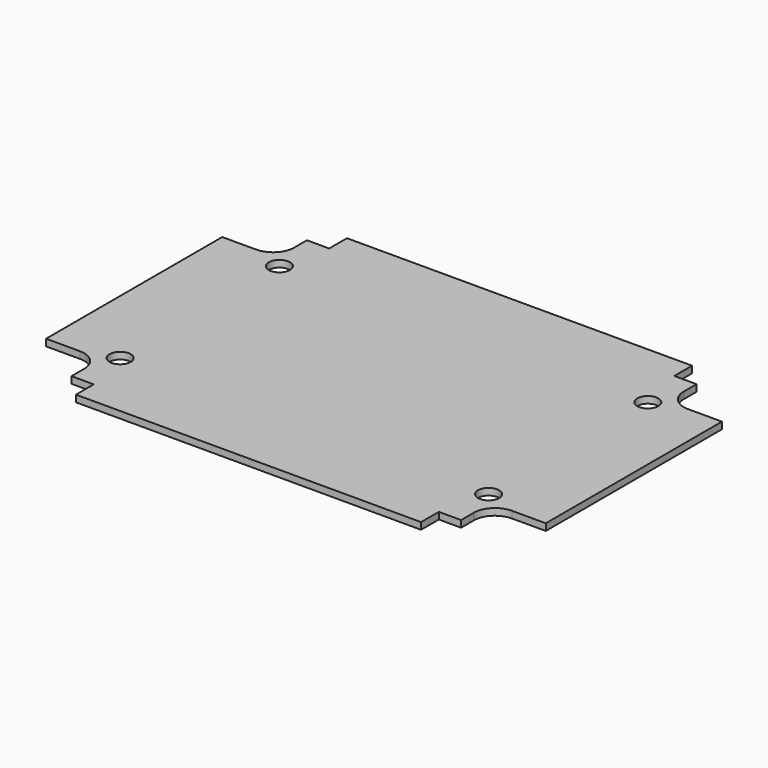
from build123d import *

# Parameters (mm, degrees)
F0_R     = 2.5
F1_DEPTH = 1.6


with BuildPart() as f1:
    # F0 (on Top) → F1 (new body)
    with BuildSketch(Plane.XY):
        with BuildLine():
            ThreePointArc((16.5, 73.5), (15.035534, 69.964466), (11.5, 68.5))
            Line((11.5, 68.5), (3.5, 68.5))
            Line((3.5, 68.5), (3.5, 16.5))
            Line((3.5, 16.5), (11.5, 16.5))
            ThreePointArc((11.5, 16.5), (15.035534, 15.035534), (16.5, 11.5))
            Line((16.5, 11.5), (16.5, 7.75))
            Line((16.5, 7.75), (21.75, 7.75))
            Line((21.75, 7.75), (21.75, 4))
            Line((21.75, 4), (21.75, 2.5))
            Line((21.75, 2.5), (103.25, 2.5))
            Line((103.25, 2.5), (103.25, 4))
            Line((103.25, 4), (103.25, 7.75))
            Line((103.25, 7.75), (108.5, 7.75))
            Line((108.5, 7.75), (108.5, 11.5))
            ThreePointArc((108.5, 11.5), (109.964466, 15.035534), (113.5, 16.5))
            Line((113.5, 16.5), (121.5, 16.5))
            Line((121.5, 16.5), (121.5, 68.5))
            Line((121.5, 68.5), (113.5, 68.5))
            ThreePointArc((113.5, 68.5), (109.964466, 69.964466), (108.5, 73.5))
            Line((108.5, 73.5), (108.5, 77.25))
            Line((108.5, 77.25), (103.25, 77.25))
            Line((103.25, 77.25), (103.25, 81))
            Line((103.25, 81), (103.25, 82.5))
            Line((103.25, 82.5), (21.75, 82.5))
            Line((21.75, 82.5), (21.75, 81))
            Line((21.75, 81), (21.75, 77.25))
            Line((21.75, 77.25), (16.5, 77.25))
            Line((16.5, 77.25), (16.5, 73.5))
        make_face()
        with Locations((19, 19)):
            Circle(F0_R, mode=Mode.SUBTRACT)
        with Locations((106, 19)):
            Circle(F0_R, mode=Mode.SUBTRACT)
        with Locations((19, 66)):
            Circle(F0_R, mode=Mode.SUBTRACT)
        with Locations((106, 66)):
            Circle(F0_R, mode=Mode.SUBTRACT)
    extrude(amount=F1_DEPTH)


solid = f1.part
